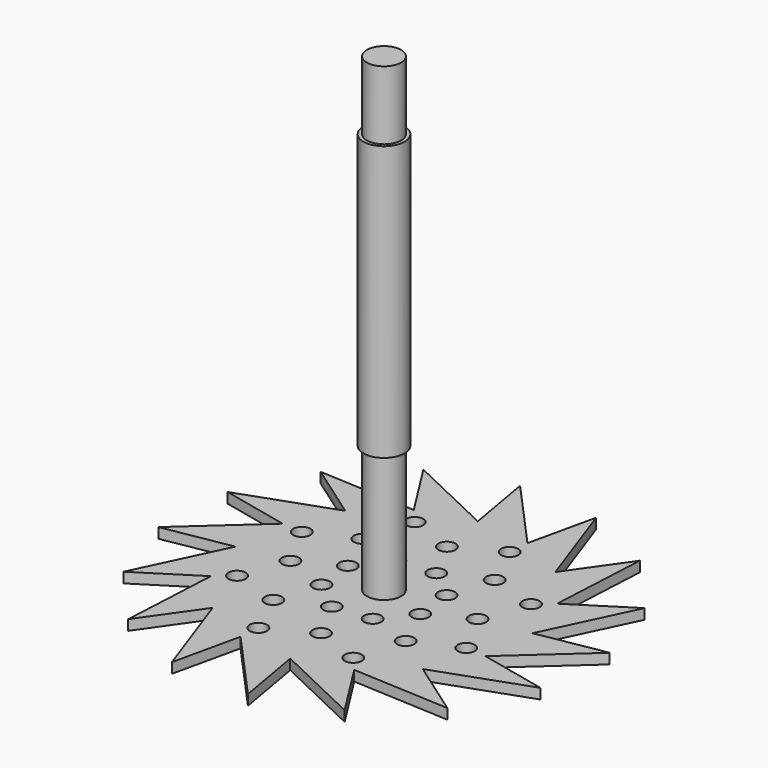
from build123d import *

# Parameters (mm, degrees)
F4_R      = 6.35
F5_DEPTH  = 177.8
F6_R      = 3.175
F7_DEPTH  = 3.81
F9_R      = 7.62
F10_DEPTH = 50.8


with BuildPart() as f5:
    # F4 (on offset) → F5 (new body)
    with BuildSketch(Plane.XY.offset(177.8)):
        Circle(F4_R)
    extrude(amount=-F5_DEPTH)

    # F6 (on Top) → F7 (join)
    with BuildSketch(Plane.XY):
        with BuildLine():
            Line((44.471199, 24.555091), (46.317659, 60.507144))
            Line((46.317659, 60.507144), (31.689204, 39.704337))
            ThreePointArc((31.689204, 39.704337), (38.826236, 32.759172), (44.471199, 24.555091))
        make_face()
        with BuildLine():
            Line((31.689204, 39.704337), (19.636856, 73.626313))
            Line((19.636856, 73.626313), (14.082815, 48.808957))
            ThreePointArc((14.082815, 48.808957), (23.334373, 45.123686), (31.689204, 39.704337))
        make_face()
        with BuildLine():
            Line((14.082815, 48.808957), (-10.033481, 75.536543))
            Line((-10.033481, 75.536543), (-5.667555, 50.482857))
            ThreePointArc((-5.667555, 50.482857), (4.290062, 50.618528), (14.082815, 48.808957))
        make_face()
        with BuildLine():
            Line((-5.667555, 50.482857), (-38.176311, 65.947019))
            Line((-38.176311, 65.947019), (-24.555091, 44.471199))
            ThreePointArc((-24.555091, 44.471199), (-15.407371, 48.407158), (-5.667555, 50.482857))
        make_face()
        with BuildLine():
            Line((-24.555091, 44.471199), (-60.507144, 46.317659))
            Line((-60.507144, 46.317659), (-39.704337, 31.689204))
            ThreePointArc((-39.704337, 31.689204), (-32.759172, 38.826236), (-24.555091, 44.471199))
        make_face()
        with BuildLine():
            Line((-39.704337, 31.689204), (-73.626313, 19.636856))
            Line((-73.626313, 19.636856), (-48.808957, 14.082815))
            ThreePointArc((-48.808957, 14.082815), (-45.123686, 23.334373), (-39.704337, 31.689204))
        make_face()
        with BuildLine():
            Line((-48.808957, 14.082815), (-75.536543, -10.033481))
            Line((-75.536543, -10.033481), (-50.482857, -5.667555))
            ThreePointArc((-50.482857, -5.667555), (-50.618528, 4.290062), (-48.808957, 14.082815))
        make_face()
        with BuildLine():
            Line((-50.482857, -5.667555), (-65.947019, -38.176311))
            Line((-65.947019, -38.176311), (-44.471199, -24.555091))
            ThreePointArc((-44.471199, -24.555091), (-48.407158, -15.407371), (-50.482857, -5.667555))
        make_face()
        with BuildLine():
            Line((-44.471199, -24.555091), (-46.317659, -60.507144))
            Line((-46.317659, -60.507144), (-31.689204, -39.704337))
            ThreePointArc((-31.689204, -39.704337), (-38.826236, -32.759172), (-44.471199, -24.555091))
        make_face()
        with BuildLine():
            Line((50.482857, 5.667555), (65.947019, 38.176311))
            Line((65.947019, 38.176311), (44.471199, 24.555091))
            ThreePointArc((44.471199, 24.555091), (48.407158, 15.407371), (50.482857, 5.667555))
        make_face()
        with BuildLine():
            Line((39.704337, -31.689204), (73.626313, -19.636856))
            Line((73.626313, -19.636856), (48.808957, -14.082815))
            ThreePointArc((48.808957, -14.082815), (45.123686, -23.334373), (39.704337, -31.689204))
        make_face()
        with BuildLine():
            Line((24.555091, -44.471199), (60.507144, -46.317659))
            Line((60.507144, -46.317659), (39.704337, -31.689204))
            ThreePointArc((39.704337, -31.689204), (32.759172, -38.826236), (24.555091, -44.471199))
        make_face()
        with BuildLine():
            Line((5.667555, -50.482857), (38.176311, -65.947019))
            Line((38.176311, -65.947019), (24.555091, -44.471199))
            ThreePointArc((24.555091, -44.471199), (15.407371, -48.407158), (5.667555, -50.482857))
        make_face()
        with BuildLine():
            Line((-31.689204, -39.704337), (-19.636856, -73.626313))
            Line((-19.636856, -73.626313), (-14.082815, -48.808957))
            ThreePointArc((-14.082815, -48.808957), (-23.334373, -45.123686), (-31.689204, -39.704337))
        make_face()
        with BuildLine():
            Line((48.808957, -14.082815), (75.536543, 10.033481))
            Line((75.536543, 10.033481), (50.482857, 5.667555))
            ThreePointArc((50.482857, 5.667555), (50.720652, 2.838211), (50.8, 0))
            ThreePointArc((50.8, 0), (50.299777, -7.111433), (48.808957, -14.082815))
        make_face()
        with BuildLine():
            ThreePointArc((50.8, 0), (50.720652, 2.838211), (50.482857, 5.667555))
            ThreePointArc((50.482857, 5.667555), (48.407158, 15.407371), (44.471199, 24.555091))
            ThreePointArc((44.471199, 24.555091), (38.826236, 32.759172), (31.689204, 39.704337))
            ThreePointArc((31.689204, 39.704337), (23.334373, 45.123686), (14.082815, 48.808957))
            ThreePointArc((14.082815, 48.808957), (4.290062, 50.618528), (-5.667555, 50.482857))
            ThreePointArc((-5.667555, 50.482857), (-15.407371, 48.407158), (-24.555091, 44.471199))
            ThreePointArc((-24.555091, 44.471199), (-32.759172, 38.826236), (-39.704337, 31.689204))
            ThreePointArc((-39.704337, 31.689204), (-45.123686, 23.334373), (-48.808957, 14.082815))
            ThreePointArc((-48.808957, 14.082815), (-50.618528, 4.290062), (-50.482857, -5.667555))
            ThreePointArc((-50.482857, -5.667555), (-48.407158, -15.407371), (-44.471199, -24.555091))
            ThreePointArc((-44.471199, -24.555091), (-38.826236, -32.759172), (-31.689204, -39.704337))
            ThreePointArc((-31.689204, -39.704337), (-23.334373, -45.123686), (-14.082815, -48.808957))
            ThreePointArc((-14.082815, -48.808957), (-4.290062, -50.618528), (5.667555, -50.482857))
            ThreePointArc((5.667555, -50.482857), (15.407371, -48.407158), (24.555091, -44.471199))
            ThreePointArc((24.555091, -44.471199), (32.759172, -38.826236), (39.704337, -31.689204))
            ThreePointArc((39.704337, -31.689204), (45.123686, -23.334373), (48.808957, -14.082815))
            ThreePointArc((48.808957, -14.082815), (50.299777, -7.111433), (50.8, 0))
        make_face()
        with Locations((-13.52704, -41.260585)):
            Circle(F6_R, mode=Mode.SUBTRACT)
        with Locations((-38.740702, -19.610578)):
            Circle(F6_R, mode=Mode.SUBTRACT)
        with Locations((-21.079572, -24.881321)):
            Circle(F6_R, mode=Mode.SUBTRACT)
        with Locations((-32.499259, -2.688243)):
            Circle(F6_R, mode=Mode.SUBTRACT)
        with Locations((-5.250672, -17.614936)):
            Circle(F6_R, mode=Mode.SUBTRACT)
        with Locations((-16.168427, -8.742855)):
            Circle(F6_R, mode=Mode.SUBTRACT)
        with Locations((19.610578, -38.740702)):
            Circle(F6_R, mode=Mode.SUBTRACT)
        with Locations((2.688243, -32.499259)):
            Circle(F6_R, mode=Mode.SUBTRACT)
        with Locations((24.881321, -21.079572)):
            Circle(F6_R, mode=Mode.SUBTRACT)
        with Locations((8.742855, -16.168427)):
            Circle(F6_R, mode=Mode.SUBTRACT)
        with Locations((17.614936, -5.250672)):
            Circle(F6_R, mode=Mode.SUBTRACT)
        with Locations((41.260585, -13.52704)):
            Circle(F6_R, mode=Mode.SUBTRACT)
        with Locations((-41.260585, 13.52704)):
            Circle(F6_R, mode=Mode.SUBTRACT)
        with Locations((-17.614936, 5.250672)):
            Circle(F6_R, mode=Mode.SUBTRACT)
        with Locations((-8.742855, 16.168427)):
            Circle(F6_R, mode=Mode.SUBTRACT)
        with Locations((-24.881321, 21.079572)):
            Circle(F6_R, mode=Mode.SUBTRACT)
        with Locations((-2.688243, 32.499259)):
            Circle(F6_R, mode=Mode.SUBTRACT)
        with Locations((-19.610578, 38.740702)):
            Circle(F6_R, mode=Mode.SUBTRACT)
        with Locations((16.168427, 8.742855)):
            Circle(F6_R, mode=Mode.SUBTRACT)
        with Locations((5.250672, 17.614936)):
            Circle(F6_R, mode=Mode.SUBTRACT)
        with Locations((32.499259, 2.688243)):
            Circle(F6_R, mode=Mode.SUBTRACT)
        with Locations((21.079572, 24.881321)):
            Circle(F6_R, mode=Mode.SUBTRACT)
        with Locations((38.740702, 19.610578)):
            Circle(F6_R, mode=Mode.SUBTRACT)
        with Locations((13.52704, 41.260585)):
            Circle(F6_R, mode=Mode.SUBTRACT)
        with BuildLine():
            Line((-14.082815, -48.808957), (10.033481, -75.536543))
            Line((10.033481, -75.536543), (5.667555, -50.482857))
            ThreePointArc((5.667555, -50.482857), (-4.290062, -50.618528), (-14.082815, -48.808957))
        make_face()
    extrude(amount=F7_DEPTH)

    # F9 (on offset) → F10 (join, symmetric)
    with BuildSketch(Plane.XY.offset(101.6)):
        Circle(F9_R)
    extrude(amount=F10_DEPTH, both=True)


solid = f5.part
